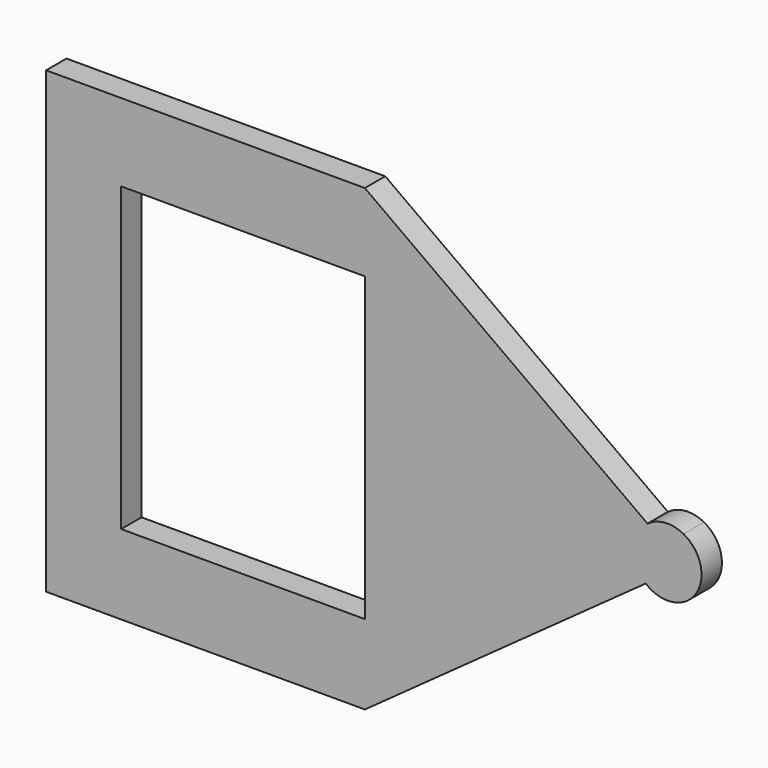
from build123d import *

# Parameters (mm, degrees)
F0_W     = 242.720081
F0_H     = 300.530582
F1_DEPTH = 25.4


with BuildPart() as f1:
    # F0 (on Front) → F1 (new body)
    with BuildSketch(Plane.XZ):
        Polygon((-120.807813, 291.692996), (-438.307813, 291.692996), (-438.307813, -165.507004), (-120.807813, -165.507004), (158.94197, 35.91284), (196.692187, 63.092996), (160.690517, 89.014198), align=None)
        with Locations((-242.167854, 64.014867)):
            Rectangle(F0_W, F0_H, mode=Mode.SUBTRACT)
        with BuildLine():
            ThreePointArc((196.692187, 91.555874), (178.323721, 95.492349), (160.690517, 89.014198))
            Line((160.690517, 89.014198), (196.692187, 63.092996))
            Line((196.692187, 63.092996), (196.692187, 91.555874))
        make_face()
        with BuildLine():
            Line((196.692187, 91.555874), (196.692187, 63.092996))
            Line((196.692187, 63.092996), (196.692187, 31.995555))
            ThreePointArc((196.692187, 31.995555), (214.504632, 61.775715), (196.692187, 91.555874))
        make_face()
        with BuildLine():
            Line((196.692187, 31.995555), (196.692187, 63.092996))
            Line((196.692187, 63.092996), (158.94197, 35.91284))
            ThreePointArc((158.94197, 35.91284), (177.215375, 28.155683), (196.692187, 31.995555))
        make_face()
    extrude(amount=F1_DEPTH)


solid = f1.part
